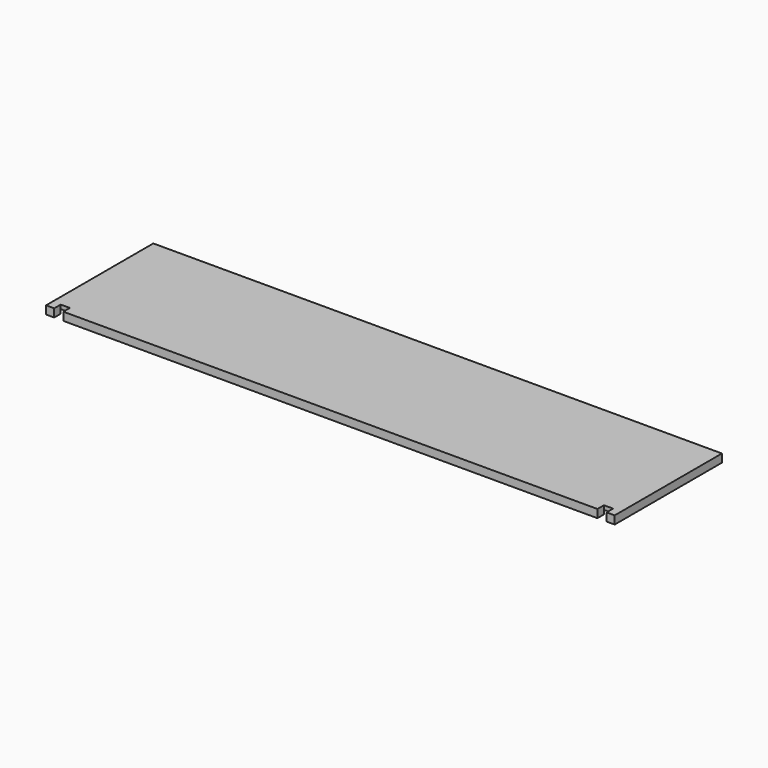
from build123d import *

# Parameters (mm, degrees)
F0_W     = 417.5125
F0_H     = 6.35
F0_W_2   = 7.14375
F0_H_2   = 50.8
F0_H_3   = 17.4625
F0_H_4   = 7.14375
F0_W_3   = 6.35
F0_H_5   = 9.525
F1_DEPTH = 6.35
F2_DEPTH = 3.175


with BuildPart() as f1:
    # F0 (on Top) → F1 (new body)
    with BuildSketch(Plane.XY):
        with Locations((0, 49.2125)):
            Rectangle(F0_W, F0_H)
        with Locations((0, -49.2125)):
            Rectangle(F0_W, F0_H)
        with Locations((-212.328125, -11.1125)):
            Rectangle(F0_W_2, F0_H_2)
        with Locations((-212.328125, 30.1625)):
            Rectangle(F0_W_2, F0_H_3)
        with Locations((0, 42.465625)):
            Rectangle(F0_W, F0_H_4)
        with Locations((0, 17.859375)):
            Rectangle(F0_W, F0_H_4)
        Polygon((222.25, -52.3875), (222.25, 52.3875), (215.9, 52.3875), (215.9, 46.0375), (215.9, 38.89375), (215.9, 21.43125), (215.9, 14.2875), (215.9, -36.5125), (215.9, -46.0375), (215.9, -52.3875), align=None)
        with Locations((-219.075, -11.1125)):
            Rectangle(F0_W_3, F0_H_2)
        with Locations((0, -41.275)):
            Rectangle(F0_W, F0_H_5)
        with Locations((0, -11.1125)):
            Rectangle(F0_W, F0_H_2)
        with Locations((0, 30.1625)):
            Rectangle(F0_W, F0_H_3)
        with Locations((-219.075, 42.465625)):
            Rectangle(F0_W_3, F0_H_4)
        with Locations((-212.328125, 49.2125)):
            Rectangle(F0_W_2, F0_H)
        with Locations((212.328125, 49.2125)):
            Rectangle(F0_W_2, F0_H)
        with Locations((-219.075, 49.2125)):
            Rectangle(F0_W_3, F0_H)
        with Locations((-212.328125, 17.859375)):
            Rectangle(F0_W_2, F0_H_4)
        with Locations((-212.328125, 42.465625)):
            Rectangle(F0_W_2, F0_H_4)
        with Locations((212.328125, 30.1625)):
            Rectangle(F0_W_2, F0_H_3)
        with Locations((-219.075, 30.1625)):
            Rectangle(F0_W_3, F0_H_3)
        with Locations((-219.075, 17.859375)):
            Rectangle(F0_W_3, F0_H_4)
        with Locations((-219.075, -41.275)):
            Rectangle(F0_W_3, F0_H_5)
        with Locations((212.328125, -41.275)):
            Rectangle(F0_W_2, F0_H_5)
        with Locations((212.328125, 42.465625)):
            Rectangle(F0_W_2, F0_H_4)
        with Locations((212.328125, 17.859375)):
            Rectangle(F0_W_2, F0_H_4)
        with Locations((-212.328125, -41.275)):
            Rectangle(F0_W_2, F0_H_5)
        with Locations((-219.075, -49.2125)):
            Rectangle(F0_W_3, F0_H)
        with Locations((212.328125, -11.1125)):
            Rectangle(F0_W_2, F0_H_2)
    extrude(amount=F1_DEPTH)

    # F0 (on Top) → F2 (cut)
    with BuildSketch(Plane.XY):
        with Locations((-212.328125, -41.275)):
            Rectangle(F0_W_2, F0_H_5)
        with Locations((-212.328125, -11.1125)):
            Rectangle(F0_W_2, F0_H_2)
        with Locations((-212.328125, 17.859375)):
            Rectangle(F0_W_2, F0_H_4)
        with Locations((-212.328125, 30.1625)):
            Rectangle(F0_W_2, F0_H_3)
        with Locations((-212.328125, 42.465625)):
            Rectangle(F0_W_2, F0_H_4)
        with Locations((-212.328125, 49.2125)):
            Rectangle(F0_W_2, F0_H)
        with Locations((-219.075, 42.465625)):
            Rectangle(F0_W_3, F0_H_4)
        with Locations((-219.075, 17.859375)):
            Rectangle(F0_W_3, F0_H_4)
        with Locations((0, 17.859375)):
            Rectangle(F0_W, F0_H_4)
        with Locations((0, 42.465625)):
            Rectangle(F0_W, F0_H_4)
        with Locations((-219.075, -41.275)):
            Rectangle(F0_W_3, F0_H_5)
        with Locations((0, -41.275)):
            Rectangle(F0_W, F0_H_5)
        with Locations((212.328125, -41.275)):
            Rectangle(F0_W_2, F0_H_5)
        with Locations((212.328125, 17.859375)):
            Rectangle(F0_W_2, F0_H_4)
        with Locations((212.328125, 42.465625)):
            Rectangle(F0_W_2, F0_H_4)
        with Locations((212.328125, 49.2125)):
            Rectangle(F0_W_2, F0_H)
        with Locations((212.328125, 30.1625)):
            Rectangle(F0_W_2, F0_H_3)
        with Locations((212.328125, -11.1125)):
            Rectangle(F0_W_2, F0_H_2)
    extrude(amount=F2_DEPTH, mode=Mode.SUBTRACT)


solid = f1.part
